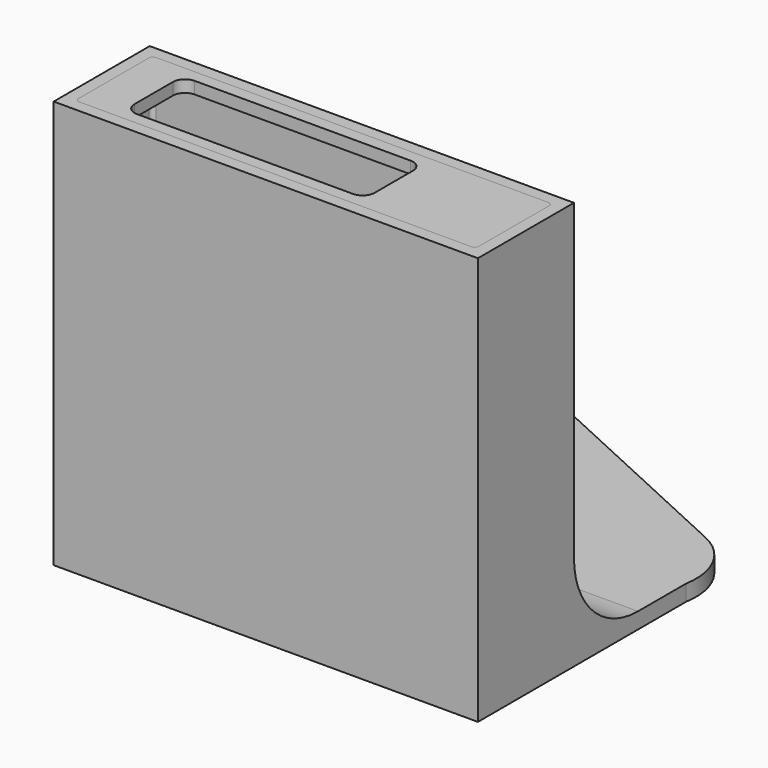
from build123d import *

# Parameters (mm, degrees)
F0_R      = 2.5
F1_DEPTH  = 4
F3_DEPTH  = 4.001
F2_W      = 106
F2_H      = 30
F4_DEPTH  = 77
F4_FACE_W = 106
F4_FACE_H = 30
F5_DEPTH  = 25
F7_DEPTH  = 3
F8_R      = 20


with BuildPart() as f1:
    # F0 (on Top) → F1 (new body)
    with BuildSketch(Plane.XY):
        with BuildLine():
            Line((143.787086, 9.598864), (28.129779, 62.851637))
            ThreePointArc((28.129779, 62.851637), (21.797523, 63.690845), (16.869406, 59.62693))
            Line((16.869406, 59.62693), (-7.352276, 3.153416))
            ThreePointArc((-7.352276, 3.153416), (-6.679346, -4.402992), (0, -8))
            Line((0, -8), (42, -8))
            ThreePointArc((42, -8), (45.535534, -9.464466), (47, -13))
            Line((47, -13), (47, -73))
            Line((47, -73), (153, -73))
            Line((153, -73), (153, -8))
            ThreePointArc((153, -8), (151.392982, 2.369623), (143.787086, 9.598864))
        make_face()
        Circle(F0_R, mode=Mode.SUBTRACT)
        with Locations((24, 56)):
            Circle(F0_R, mode=Mode.SUBTRACT)
    extrude(amount=F1_DEPTH)

    # F2 (on face) → F3 (cut, through all)
    with BuildSketch(Plane(origin=(0, 0, 0), x_dir=(1, 0, 0), z_dir=(0, 0, -1))):
        with BuildLine():
            ThreePointArc((50, 47), (50.292893, 46.292893), (51, 46))
            Line((51, 46), (149, 46))
            ThreePointArc((149, 46), (149.707107, 46.292893), (150, 47))
            Line((150, 47), (150, 69))
            ThreePointArc((150, 69), (149.707107, 69.707107), (149, 70))
            Line((149, 70), (51, 70))
            ThreePointArc((51, 70), (50.292893, 69.707107), (50, 69))
            Line((50, 69), (50, 47))
        make_face()
    extrude(amount=-F3_DEPTH, mode=Mode.SUBTRACT)

    # F2 (on face) → F4 (join)
    with BuildSketch(Plane(origin=(0, 0, 0), x_dir=(1, 0, 0), z_dir=(0, 0, -1))):
        with Locations((100, 58)):
            Rectangle(F2_W, F2_H)
        with BuildLine():
            Line((149, 46), (51, 46))
            ThreePointArc((51, 46), (50.292893, 46.292893), (50, 47))
            Line((50, 47), (50, 69))
            ThreePointArc((50, 69), (50.292893, 69.707107), (51, 70))
            Line((51, 70), (149, 70))
            ThreePointArc((149, 70), (149.707107, 69.707107), (150, 69))
            Line((150, 69), (150, 47))
            ThreePointArc((150, 47), (149.707107, 46.292893), (149, 46))
        make_face(mode=Mode.SUBTRACT)
    extrude(amount=-F4_DEPTH)

    # F4_face (on face) → F5 (join)
    with BuildSketch(Plane(origin=(100, -58, 77), x_dir=(1, 0, 0), z_dir=(0, 0, 1))):
        Rectangle(F4_FACE_W, F4_FACE_H)
        with BuildLine():
            Line((-49, 12), (49, 12))
            ThreePointArc((49, 12), (49.707107, 11.707107), (50, 11))
            Line((50, 11), (50, -11))
            ThreePointArc((50, -11), (49.707107, -11.707107), (49, -12))
            Line((49, -12), (-49, -12))
            ThreePointArc((-49, -12), (-49.707107, -11.707107), (-50, -11))
            Line((-50, -11), (-50, 11))
            ThreePointArc((-50, 11), (-49.707107, 11.707107), (-49, 12))
        make_face(mode=Mode.SUBTRACT)
    extrude(amount=F5_DEPTH)

    # F8
    f8_edges = [f1.edges().sort_by_distance(p)[0] for p in [
        (100, -43, 4),
    ]]
    fillet(f8_edges, radius=F8_R)


with BuildPart() as f7:
    # F6 (on face) → F7 (new body)
    with BuildSketch(Plane.XY.offset(102)):
        with BuildLine():
            Line((149, -46), (51, -46))
            ThreePointArc((51, -46), (50.292893, -46.292893), (50, -47))
            Line((50, -47), (50, -69))
            ThreePointArc((50, -69), (50.292893, -69.707107), (51, -70))
            Line((51, -70), (149, -70))
            ThreePointArc((149, -70), (149.707107, -69.707107), (150, -69))
            Line((150, -69), (150, -47))
            ThreePointArc((150, -47), (149.707107, -46.292893), (149, -46))
        make_face()
        with BuildLine():
            Line((60, -64), (60, -52))
            ThreePointArc((60, -52), (60.87868, -49.87868), (63, -49))
            Line((63, -49), (117, -49))
            ThreePointArc((117, -49), (119.12132, -49.87868), (120, -52))
            Line((120, -52), (120, -64))
            ThreePointArc((120, -64), (119.12132, -66.12132), (117, -67))
            Line((117, -67), (63, -67))
            ThreePointArc((63, -67), (60.87868, -66.12132), (60, -64))
        make_face(mode=Mode.SUBTRACT)
    extrude(amount=-F7_DEPTH)


solid = Compound([f1.part, f7.part])
